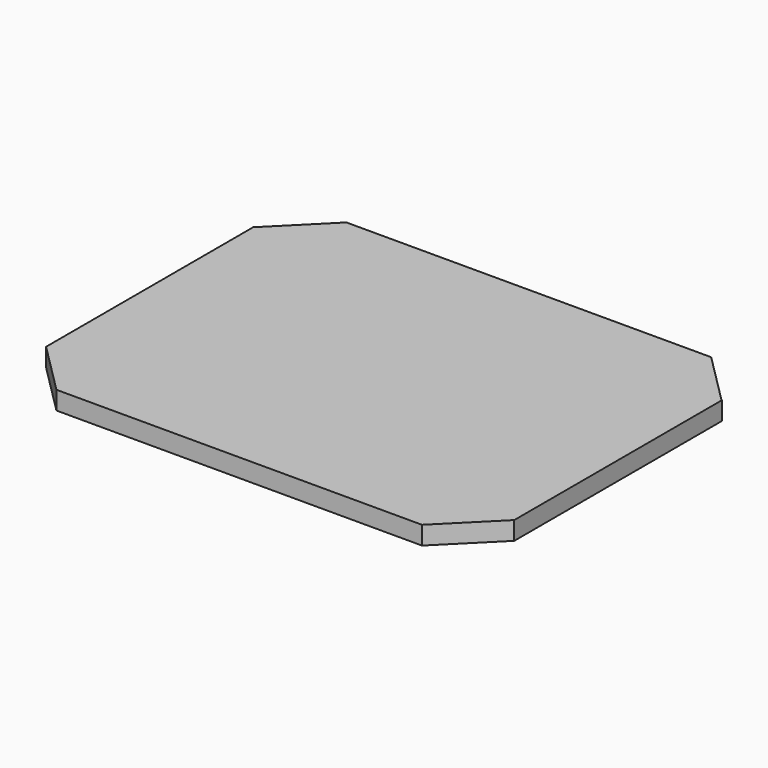
from build123d import *

# Parameters (mm, degrees)
BOX003_W               = 20
BOX003_H               = 20
BOX003_DEPTH           = 20
BOX003_PLACEMENT_ANGLE = 45
BOX004_W               = 20
BOX004_H               = 20
BOX004_DEPTH           = 20
BOX004_PLACEMENT_ANGLE = 45
BOX002_W               = 20
BOX002_H               = 20
BOX002_DEPTH           = 20
BOX002_PLACEMENT_ANGLE = -45
BOX_W                  = 20
BOX_H                  = 20
BOX_DEPTH              = 20
BOX_PLACEMENT_ANGLE    = -45
BOX001_W               = 128
BOX001_H               = 99
BOX001_DEPTH           = 5


with BuildPart() as cubo004:
    # Box003 → Box003 (new body)
    with BuildSketch(Plane.XY):
        with Locations((10, 10)):
            Rectangle(BOX003_W, BOX003_H)
    extrude(amount=BOX003_DEPTH)


with BuildPart() as cubo004_1:
    # Box003 placement: moved
    add(cubo004.part.moved(Location((-14, -28.65, 0))).rotate(Axis((-14, -28.65, 0), (0, 0, 1)), BOX003_PLACEMENT_ANGLE))


with BuildPart() as cubo005:
    # Box004 → Box004 (new body)
    with BuildSketch(Plane.XY):
        with Locations((10, 10)):
            Rectangle(BOX004_W, BOX004_H)
    extrude(amount=BOX004_DEPTH)


with BuildPart() as cubo005_1:
    # Box004 placement: moved
    add(cubo005.part.moved(Location((-14, 70.35, 0))).rotate(Axis((-14, 70.35, 0), (0, 0, 1)), BOX004_PLACEMENT_ANGLE))


with BuildPart() as cubo002:
    # Box002 → Box002 (new body)
    with BuildSketch(Plane.XY):
        with Locations((10, 10)):
            Rectangle(BOX002_W, BOX002_H)
    extrude(amount=BOX002_DEPTH)


with BuildPart() as cubo002_1:
    # Box002 placement: moved
    add(cubo002.part.moved(Location((100, -14.5, 0))).rotate(Axis((100, -14.5, 0), (0, 0, 1)), BOX002_PLACEMENT_ANGLE))


with BuildPart() as fusion:
    # Box → Box (new body)
    with BuildSketch(Plane.XY):
        with Locations((10, 10)):
            Rectangle(BOX_W, BOX_H)
    extrude(amount=BOX_DEPTH)


with BuildPart() as fusion_1:
    # Box placement: moved
    add(fusion.part.moved(Location((99.8, 84.5, 0))).rotate(Axis((99.8, 84.5, 0), (0, 0, 1)), BOX_PLACEMENT_ANGLE))

    # Fusion: union Cubo004, Cubo005, Cubo002
    add(cubo004_1.part)
    add(cubo005_1.part)
    add(cubo002_1.part)


with BuildPart() as cut:
    # Box001 → Box001 (new body)
    with BuildSketch(Plane(origin=(-14, -14.5, 0), x_dir=(1, 0, 0), z_dir=(0, 0, 1))):
        with Locations((64, 49.5)):
            Rectangle(BOX001_W, BOX001_H)
    extrude(amount=BOX001_DEPTH)

    # Cut: cut Fusion
    add(fusion_1.part, mode=Mode.SUBTRACT)


solid = cut.part
